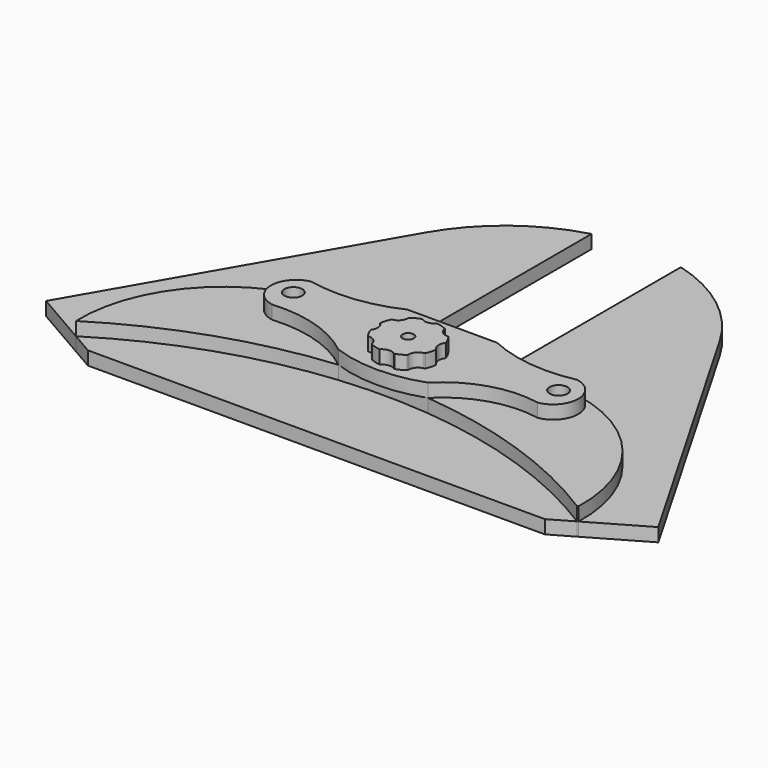
from build123d import *

# Parameters (mm, degrees)
F0_R     = 2
F0_R_2   = 1.25
F1_DEPTH = 3
F2_DEPTH = 3
F3_DEPTH = 3


with BuildPart() as f1:
    # F0 (on Top) → F1 (new body)
    with BuildSketch(Plane.XY):
        with BuildLine():
            ThreePointArc((150.9915064408, -60.6742873788), (155.6727504239, -55.2777444141), (151.2071069256, -49.7014778005))
            ThreePointArc((151.2071069256, -49.7014778005), (151.0993403261, -49.6815651012), (150.9915064408, -49.6620200574))
            ThreePointArc((150.9915064408, -49.6620200574), (141.0091673717, -50.1321424646), (131.3838701546, -47.44480887))
            Line((131.3838701546, -47.44480887), (111.3838701546, -47.44480887))
            ThreePointArc((111.3838701546, -47.44480887), (101.7585729374, -50.1321424646), (91.7762338684, -49.6620200574))
            ThreePointArc((91.7762338684, -49.6620200574), (91.6683999831, -49.6815651012), (91.5606333835, -49.7014778005))
            ThreePointArc((91.5606333835, -49.7014778005), (87.0949898853, -55.2777444141), (91.7762338684, -60.6742873788))
            ThreePointArc((91.7762338684, -60.6742873788), (102.1603628794, -61.8191485389), (111.3838701546, -66.7250384621))
            ThreePointArc((111.3838701546, -66.7250384621), (121.3844113185, -66.2591015629), (131.3838701546, -66.7477156763))
            ThreePointArc((131.3838701546, -66.7477156763), (140.4190735843, -61.2295829604), (150.9915064408, -60.6742873788))
        make_face()
        with Locations((91.7762338684, -54.790814396)):
            Circle(F0_R, mode=Mode.SUBTRACT)
        with Locations((121.2762338684, -59.4985965783)):
            Circle(F0_R_2, mode=Mode.SUBTRACT)
        with Locations((150.9915064408, -54.790814396)):
            Circle(F0_R, mode=Mode.SUBTRACT)
        with BuildLine():
            Line((172.2830375342, -85.2393325118), (177.2022407862, -82.39922919))
            ThreePointArc((177.2022407862, -82.39922919), (155.2075333191, -71.8964223849), (131.3838701546, -66.7477156763))
            ThreePointArc((131.3838701546, -66.7477156763), (121.3819077844, -68.4670748679), (111.3838701546, -66.7250384621))
            ThreePointArc((111.3838701546, -66.7250384621), (87.4416853139, -71.8560195254), (65.338879796, -82.3926779072))
            Line((65.338879796, -82.3926779072), (70.2692985989, -85.2392565303))
            Line((70.2692985989, -85.2392565303), (172.2830375342, -85.2393325118))
        make_face()
        with BuildLine():
            ThreePointArc((111.3838701546, -66.7250384621), (121.3819077844, -68.4670748679), (131.3838701546, -66.7477156763))
            ThreePointArc((131.3838701546, -66.7477156763), (121.3844113185, -66.2591015629), (111.3838701546, -66.7250384621))
        make_face()
        with BuildLine():
            ThreePointArc((91.5606333835, -49.7014778005), (72.3870773586, -61.1841765116), (65.338879796, -82.3926779072))
            ThreePointArc((65.338879796, -82.3926779072), (87.4416853139, -71.8560195254), (111.3838701546, -66.7250384621))
            ThreePointArc((111.3838701546, -66.7250384621), (102.1603628794, -61.8191485389), (91.7762338684, -60.6742873788))
            ThreePointArc((91.7762338684, -60.6742873788), (87.0949898853, -55.2777444141), (91.5606333835, -49.7014778005))
        make_face()
        with BuildLine():
            Line((177.4329602868, -82.2660232242), (189.6035456099, -75.2393325118))
            Line((189.6035456099, -75.2393325118), (154.0967427926, -13.739746018))
            ThreePointArc((154.0967427926, -13.739746018), (144.4697012778, -2.7168406126), (131.3838701546, 3.8364330515))
            Line((131.3838701546, 3.8364330515), (131.3838701546, -47.44480887))
            ThreePointArc((131.3838701546, -47.44480887), (141.0091673717, -50.1321424646), (150.9915064408, -49.6620200574))
            ThreePointArc((150.9915064408, -49.6620200574), (151.099500487, -49.6806899685), (151.2071069256, -49.7014778005))
            ThreePointArc((151.2071069256, -49.7014778005), (170.3409698378, -61.1347901276), (177.4329602868, -82.2660232242))
        make_face()
        with BuildLine():
            Line((177.2022407862, -82.39922919), (177.4329602868, -82.2660232242))
            ThreePointArc((177.4329602868, -82.2660232242), (170.3409698378, -61.1347901276), (151.2071069256, -49.7014778005))
            ThreePointArc((151.2071069256, -49.7014778005), (155.6727504239, -55.2777444141), (150.9915064408, -60.6742873788))
            ThreePointArc((150.9915064408, -60.6742873788), (140.4190735843, -61.2295829604), (131.3838701546, -66.7477156763))
            ThreePointArc((131.3838701546, -66.7477156763), (155.2075333191, -71.8964223849), (177.2022407862, -82.39922919))
        make_face()
        with BuildLine():
            Line((111.3838701546, -47.44480887), (111.3838701546, 3.8953238247))
            ThreePointArc((111.3838701546, 3.8953238247), (98.1711211837, -2.6486757443), (88.4557266413, -13.7397430785))
            Line((88.4557266413, -13.7397430785), (52.9489221269, -75.2393325118))
            Line((52.9489221269, -75.2393325118), (65.338879796, -82.3926779072))
            ThreePointArc((65.338879796, -82.3926779072), (72.3870773586, -61.1841765116), (91.5606333835, -49.7014778005))
            ThreePointArc((91.5606333835, -49.7014778005), (91.6682398222, -49.6806899685), (91.7762338684, -49.6620200574))
            ThreePointArc((91.7762338684, -49.6620200574), (101.7585729374, -50.1321424646), (111.3838701546, -47.44480887))
        make_face()
        with BuildLine():
            Line((177.4329602868, -82.2660232242), (189.6035456099, -75.2393325118))
            Line((189.6035456099, -75.2393325118), (154.0967427926, -13.739746018))
            ThreePointArc((154.0967427926, -13.739746018), (144.4697012778, -2.7168406126), (131.3838701546, 3.8364330515))
            Line((131.3838701546, 3.8364330515), (131.3838701546, -47.44480887))
            ThreePointArc((131.3838701546, -47.44480887), (141.0091673717, -50.1321424646), (150.9915064408, -49.6620200574))
            ThreePointArc((150.9915064408, -49.6620200574), (151.099500487, -49.6806899685), (151.2071069256, -49.7014778005))
            ThreePointArc((151.2071069256, -49.7014778005), (170.3409698378, -61.1347901276), (177.4329602868, -82.2660232242))
        make_face()
    extrude(amount=F1_DEPTH)


with BuildPart() as f1b:
    # F0 (on Top) → F1, piece 2 (new body)
    with BuildSketch(Plane.XY):
        with BuildLine():
            ThreePointArc((118.189036844, -29.8674602026), (118.2321720457, -29.9683460946), (118.3167034049, -30.0382964923))
            ThreePointArc((118.3167034049, -30.0382964923), (119.3980225464, -30.4584474038), (120.5338827037, -30.6942430301))
            ThreePointArc((120.5338827037, -30.6942430301), (121.9234393535, -29.9460981343), (123.4532793874, -30.333626119))
            ThreePointArc((123.4532793874, -30.333626119), (123.5551176794, -30.3744620238), (123.6643527773, -30.364151727))
            ThreePointArc((123.6643527773, -30.364151727), (124.6711983888, -29.9261271071), (125.597162063, -29.3360466658))
            ThreePointArc((125.597162063, -29.3360466658), (125.6667649852, -29.2512289668), (125.6898220764, -29.1439583773))
            ThreePointArc((125.6898220764, -29.1439583773), (126.1859168862, -27.703201731), (127.5052900683, -26.9408735994))
            ThreePointArc((127.5052900683, -26.9408735994), (127.6061759603, -26.8977383978), (127.676126358, -26.8132070385))
            ThreePointArc((127.676126358, -26.8132070385), (128.0783435385, -25.7915294999), (128.3158488502, -24.7195244253))
            ThreePointArc((128.3158488502, -24.7195244253), (128.3050903783, -24.6103325569), (128.2455424425, -24.5181769701))
            ThreePointArc((128.2455424425, -24.5181769701), (127.5775656521, -23.1486161714), (127.9714559847, -21.6766310561))
            ThreePointArc((127.9714559847, -21.6766310561), (128.0122918895, -21.5747927641), (128.0019815927, -21.4655576661))
            ThreePointArc((128.0019815927, -21.4655576661), (127.5639569728, -20.4587120546), (126.9738765315, -19.5327483804))
            ThreePointArc((126.9738765315, -19.5327483804), (126.8890588325, -19.4631454582), (126.781788243, -19.4400883671))
            ThreePointArc((126.781788243, -19.4400883671), (125.2966129692, -18.9063816363), (124.5625111479, -17.5093551569))
            ThreePointArc((124.5625111479, -17.5093551569), (123.4888390518, -17.0700305569), (122.357354291, -16.8140615933))
            ThreePointArc((122.357354291, -16.8140615933), (122.2481624226, -16.8248200651), (122.1560068358, -16.8843680009))
            ThreePointArc((122.1560068358, -16.8843680009), (120.7864460371, -17.5523447914), (119.3144609218, -17.1584544588))
            ThreePointArc((119.3144609218, -17.1584544588), (119.2126226298, -17.117618554), (119.1033875319, -17.1279288507))
            ThreePointArc((119.1033875319, -17.1279288507), (118.0965419203, -17.5659534707), (117.1705782461, -18.1560339119))
            ThreePointArc((117.1705782461, -18.1560339119), (117.100975324, -18.2408516109), (117.0779182328, -18.3481222005))
            ThreePointArc((117.0779182328, -18.3481222005), (116.581823423, -19.7888788467), (115.2624502409, -20.5512069783))
            ThreePointArc((115.2624502409, -20.5512069783), (115.1615643488, -20.59434218), (115.0916139511, -20.6788735392))
            ThreePointArc((115.0916139511, -20.6788735392), (114.6893967707, -21.7005510778), (114.451891459, -22.7725561525))
            ThreePointArc((114.451891459, -22.7725561525), (114.4626499309, -22.8817480208), (114.5221978666, -22.9739036077))
            ThreePointArc((114.5221978666, -22.9739036077), (115.1901746571, -24.3434644063), (114.7962843245, -25.8154495217))
            ThreePointArc((114.7962843245, -25.8154495217), (114.7554484197, -25.9172878137), (114.7657587165, -26.0265229116))
            ThreePointArc((114.7657587165, -26.0265229116), (115.2037833364, -27.0333685231), (115.7938637777, -27.9593321973))
            ThreePointArc((115.7938637777, -27.9593321973), (115.8786814766, -28.0289351195), (115.9859520662, -28.0519922107))
            ThreePointArc((115.9859520662, -28.0519922107), (117.4267087124, -28.5480870205), (118.189036844, -29.8674602026))
        make_face()
        with Locations((121.3838701546, -23.7460402889)):
            Circle(F0_R_2, mode=Mode.SUBTRACT)
    extrude(amount=F1_DEPTH)


with BuildPart() as f2:
    # F0 (on Top) → F2 (new body)
    with BuildSketch(Plane.XY):
        with BuildLine():
            ThreePointArc((150.9915064408, -60.6742873788), (155.6727504239, -55.2777444141), (151.2071069256, -49.7014778005))
            ThreePointArc((151.2071069256, -49.7014778005), (151.0993403261, -49.6815651012), (150.9915064408, -49.6620200574))
            ThreePointArc((150.9915064408, -49.6620200574), (141.0091673717, -50.1321424646), (131.3838701546, -47.44480887))
            Line((131.3838701546, -47.44480887), (111.3838701546, -47.44480887))
            ThreePointArc((111.3838701546, -47.44480887), (101.7585729374, -50.1321424646), (91.7762338684, -49.6620200574))
            ThreePointArc((91.7762338684, -49.6620200574), (91.6683999831, -49.6815651012), (91.5606333835, -49.7014778005))
            ThreePointArc((91.5606333835, -49.7014778005), (87.0949898853, -55.2777444141), (91.7762338684, -60.6742873788))
            ThreePointArc((91.7762338684, -60.6742873788), (102.1603628794, -61.8191485389), (111.3838701546, -66.7250384621))
            ThreePointArc((111.3838701546, -66.7250384621), (121.3844113185, -66.2591015629), (131.3838701546, -66.7477156763))
            ThreePointArc((131.3838701546, -66.7477156763), (140.4190735843, -61.2295829604), (150.9915064408, -60.6742873788))
        make_face()
        with Locations((91.7762338684, -54.790814396)):
            Circle(F0_R, mode=Mode.SUBTRACT)
        with Locations((121.2762338684, -59.4985965783)):
            Circle(F0_R_2, mode=Mode.SUBTRACT)
        with Locations((150.9915064408, -54.790814396)):
            Circle(F0_R, mode=Mode.SUBTRACT)
        with BuildLine():
            ThreePointArc((111.3838701546, -66.7250384621), (121.3819077844, -68.4670748679), (131.3838701546, -66.7477156763))
            ThreePointArc((131.3838701546, -66.7477156763), (121.3844113185, -66.2591015629), (111.3838701546, -66.7250384621))
        make_face()
    extrude(amount=F2_DEPTH)


with BuildPart() as f3:
    # F0 (on Top) → F3 (new body)
    with BuildSketch(Plane.XY):
        with BuildLine():
            ThreePointArc((150.9915064408, -60.6742873788), (155.6727504239, -55.2777444141), (151.2071069256, -49.7014778005))
            ThreePointArc((151.2071069256, -49.7014778005), (151.0993403261, -49.6815651012), (150.9915064408, -49.6620200574))
            ThreePointArc((150.9915064408, -49.6620200574), (141.0091673717, -50.1321424646), (131.3838701546, -47.44480887))
            Line((131.3838701546, -47.44480887), (111.3838701546, -47.44480887))
            ThreePointArc((111.3838701546, -47.44480887), (101.7585729374, -50.1321424646), (91.7762338684, -49.6620200574))
            ThreePointArc((91.7762338684, -49.6620200574), (91.6683999831, -49.6815651012), (91.5606333835, -49.7014778005))
            ThreePointArc((91.5606333835, -49.7014778005), (87.0949898853, -55.2777444141), (91.7762338684, -60.6742873788))
            ThreePointArc((91.7762338684, -60.6742873788), (102.1603628794, -61.8191485389), (111.3838701546, -66.7250384621))
            ThreePointArc((111.3838701546, -66.7250384621), (121.3844113185, -66.2591015629), (131.3838701546, -66.7477156763))
            ThreePointArc((131.3838701546, -66.7477156763), (140.4190735843, -61.2295829604), (150.9915064408, -60.6742873788))
        make_face()
        with Locations((91.7762338684, -54.790814396)):
            Circle(F0_R, mode=Mode.SUBTRACT)
        with Locations((121.2762338684, -59.4985965783)):
            Circle(F0_R_2, mode=Mode.SUBTRACT)
        with Locations((150.9915064408, -54.790814396)):
            Circle(F0_R, mode=Mode.SUBTRACT)
        with BuildLine():
            Line((177.2022407862, -82.39922919), (177.4329602868, -82.2660232242))
            ThreePointArc((177.4329602868, -82.2660232242), (170.3409698378, -61.1347901276), (151.2071069256, -49.7014778005))
            ThreePointArc((151.2071069256, -49.7014778005), (155.6727504239, -55.2777444141), (150.9915064408, -60.6742873788))
            ThreePointArc((150.9915064408, -60.6742873788), (140.4190735843, -61.2295829604), (131.3838701546, -66.7477156763))
            ThreePointArc((131.3838701546, -66.7477156763), (155.2075333191, -71.8964223849), (177.2022407862, -82.39922919))
        make_face()
        with BuildLine():
            ThreePointArc((91.5606333835, -49.7014778005), (72.3870773586, -61.1841765116), (65.338879796, -82.3926779072))
            ThreePointArc((65.338879796, -82.3926779072), (87.4416853139, -71.8560195254), (111.3838701546, -66.7250384621))
            ThreePointArc((111.3838701546, -66.7250384621), (102.1603628794, -61.8191485389), (91.7762338684, -60.6742873788))
            ThreePointArc((91.7762338684, -60.6742873788), (87.0949898853, -55.2777444141), (91.5606333835, -49.7014778005))
        make_face()
    extrude(amount=F3_DEPTH)


with BuildPart() as f3_1:
    # F4: moved
    add(f3.part.moved(Location((0, 0, 3))))


with BuildPart() as f2_1:
    # F5: moved
    add(f2.part.moved(Location((0, 0, 6))))


with BuildPart() as f1b_1:
    # F6: moved
    add(f1b.part.moved(Location((0, -36, 9))))


solid = Compound([f1.part, f3_1.part, f2_1.part, f1b_1.part])
